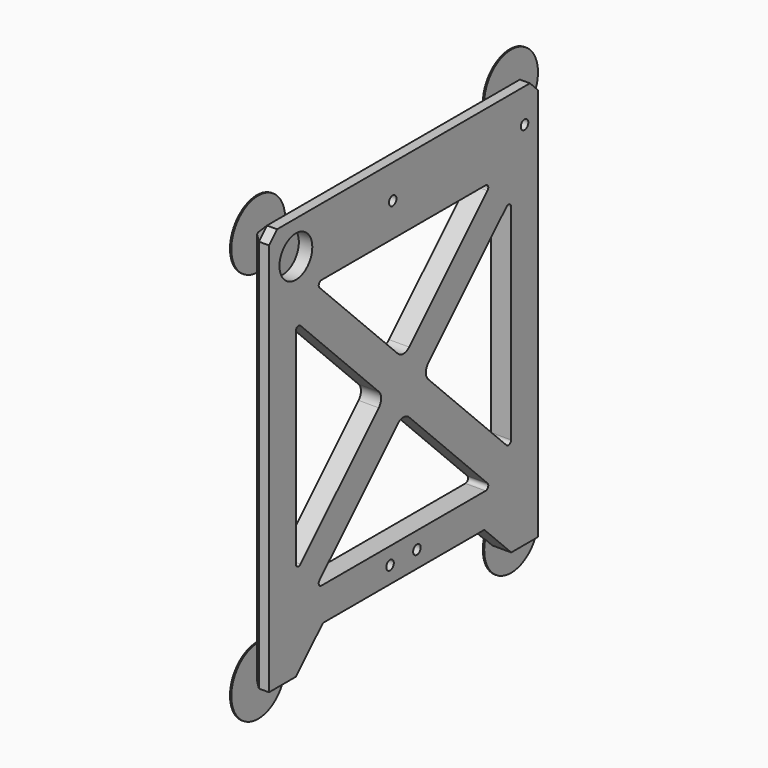
from build123d import *

# Parameters (mm, degrees)
F1_DEPTH        = 6
F2_R            = 1
F3_R            = 5
F4_DEPTH        = 1.8
F6_D            = 2.8
F6_CBORE_D      = 6
F6_CBORE_DEPTH  = 2.5
F7_SIZE         = 3
F9_DEPTH        = 0.4
F10_D           = 2.8
F10_CBORE_D     = 6
F10_CBORE_DEPTH = 2.5
F11_R           = 6.1
F12_DEPTH       = 4
F14_DEPTH       = 1


with BuildPart() as f1:
    # F0 (on Right) → F1 (new body)
    with BuildSketch(Plane.YZ):
        Polygon((40.0512183458, -60), (50, -60), (50, 60), (-50, 60), (-50, -60), (-40, -60), (-29.9487816542, -50), (30.0512183458, -50), align=None)
        with BuildLine():
            Line((2.1213203436, -9.1923881554), (32.9289321881, -40))
            Line((32.9289321881, -40), (-32.9289321881, -40))
            Line((-32.9289321881, -40), (-2.1213203436, -9.1923881554))
            ThreePointArc((-2.1213203436, -9.1923881554), (0, -8.313708499), (2.1213203436, -9.1923881554))
        make_face(mode=Mode.SUBTRACT)
        with BuildLine():
            Line((-9.1923881554, -2.1213203436), (-40, -32.9289321881))
            Line((-40, -32.9289321881), (-40, 32.9289321881))
            Line((-40, 32.9289321881), (-9.1923881554, 2.1213203436))
            ThreePointArc((-9.1923881554, 2.1213203436), (-8.313708499, 0), (-9.1923881554, -2.1213203436))
        make_face(mode=Mode.SUBTRACT)
        with BuildLine():
            Line((40, 32.9289321881), (40, -32.9289321881))
            Line((40, -32.9289321881), (9.1923881554, -2.1213203436))
            ThreePointArc((9.1923881554, -2.1213203436), (8.313708499, 0), (9.1923881554, 2.1213203436))
            Line((9.1923881554, 2.1213203436), (40, 32.9289321881))
        make_face(mode=Mode.SUBTRACT)
        with BuildLine():
            Line((-32.9289321881, 40), (32.9289321881, 40))
            Line((32.9289321881, 40), (2.1213203436, 9.1923881554))
            ThreePointArc((2.1213203436, 9.1923881554), (0, 8.313708499), (-2.1213203436, 9.1923881554))
            Line((-2.1213203436, 9.1923881554), (-32.9289321881, 40))
        make_face(mode=Mode.SUBTRACT)
    extrude(amount=F1_DEPTH)

    # F2
    f2_edges = [f1.edges().sort_by_distance(p)[0] for p in [
        (3, -32.928932, 40),
        (3, 32.928932, 40),
        (3, -40, 32.928932),
        (3, -40, -32.928932),
        (3, -32.928932, -40),
        (3, 40, 32.928932),
        (3, 40, -32.928932),
        (3, 32.928932, -40),
    ]]
    fillet(f2_edges, radius=F2_R)

    # F3 (on face) → F4 (cut)
    with BuildSketch(Plane(origin=(0, 0, 0), x_dir=(0, -1, 0), z_dir=(-1, 0, 0))):
        Circle(F3_R)
    extrude(amount=-F4_DEPTH, mode=Mode.SUBTRACT)

    # F6 (through all)
    with Locations(Plane(origin=(0, 0, 0), x_dir=(0, -1, 0), z_dir=(-1, 0, 0))):
        with Locations((-5, -45), (5, -45)):
            CounterBoreHole(F6_D / 2, F6_CBORE_D / 2, F6_CBORE_DEPTH)

    # F7
    f7_edges = [f1.edges().sort_by_distance(p)[0] for p in [
        (3, -50, 60),
        (3, 50, 60),
        (0, -50, 0),
        (0, 50, 0),
        (0, 0, 60),
    ]]
    chamfer(f7_edges, length=F7_SIZE)

    # F8 (on face) → F9 (join)
    with BuildSketch(Plane(origin=(0, 0, 0), x_dir=(0, -1, 0), z_dir=(-1, 0, 0))):
        with BuildLine():
            Line((-47, 57), (-37, 57))
            ThreePointArc((-37, 57), (-54.0710678119, 64.0710678119), (-47, 47))
            Line((-47, 47), (-47, 57))
        make_face()
        with BuildLine():
            ThreePointArc((47, 47), (54.0710678119, 64.0710678119), (37, 57))
            Line((37, 57), (47, 57))
            Line((47, 57), (47, 47))
        make_face()
        with BuildLine():
            Line((-47, -60), (-47, -50))
            ThreePointArc((-47, -50), (-53.0480452096, -67.9637396456), (-37.3669885172, -57.3157701715))
            Line((-37.3669885172, -57.3157701715), (-40.0512183458, -60))
            Line((-40.0512183458, -60), (-47, -60))
        make_face()
        with BuildLine():
            ThreePointArc((37.3529996858, -57.3664880981), (53.0689735945, -67.9478021811), (47, -50))
            Line((47, -50), (47, -60))
            Line((47, -60), (40, -60))
            Line((40, -60), (37.3529996858, -57.3664880981))
        make_face()
    extrude(amount=-F9_DEPTH)

    # F10 (through all)
    with Locations(Plane(origin=(0, 0, 0), x_dir=(0, 1, 0), z_dir=(-1, 0, 0))):
        with Locations((-4, -50), (45, -50)):
            CounterBoreHole(F10_D / 2, F10_CBORE_D / 2, F10_CBORE_DEPTH)

    # F11 (on face) → F12 (cut)
    with BuildSketch(Plane.YZ.offset(6)):
        with Locations((-40, 50)):
            Circle(F11_R)
    extrude(amount=-F12_DEPTH, mode=Mode.SUBTRACT)

    # F13 (on face) → F14 (join)
    with BuildSketch(Plane.YZ.offset(0.4)):
        with BuildLine():
            Line((47.4, 48.2), (47.4, 47.0080032026))
            Line((47.4, 47.0080032026), (48.3105732452, 48.2))
            Line((48.3105732452, 48.2), (48.3105732452, 51.8))
            Line((48.3105732452, 51.8), (47.4, 53.0080032026))
            Line((47.4, 53.0080032026), (47.4, 51.8))
            ThreePointArc((47.4, 51.8), (47.8460498942, 50.9486832981), (48, 50))
            ThreePointArc((48, 50), (47.8460498942, 49.0513167019), (47.4, 48.2))
        make_face()
    extrude(amount=F14_DEPTH)


solid = f1.part
